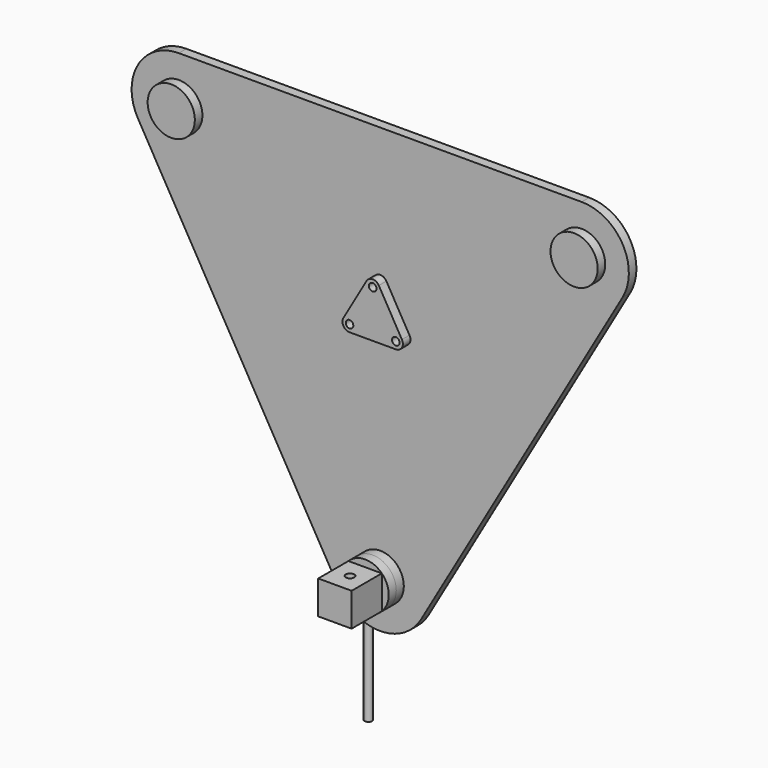
from build123d import *

# Parameters (mm, degrees)
F0_R      = 8
F1_DEPTH  = 20
F2_R      = 8
F3_DEPTH  = 22
F4_W      = 16
F4_H      = 16
F5_DEPTH  = 16
F6_R      = 8
F7_DEPTH  = 750
F9_DEPTH  = 20
F10_R     = 50
F11_DEPTH = 20
F12_R     = 50
F13_DEPTH = 20
F15_DEPTH = 80
F17_DEPTH = 100


with BuildPart() as f1:
    # F0 (on Front) → F1 (new body)
    with BuildSketch(Plane.XZ):
        with BuildLine():
            Line((-12.990381, 64.10254), (-62.009619, -20.80127))
            ThreePointArc((-62.009619, -20.80127), (-62.009619, -35.80127), (-49.019238, -43.30127))
            Line((-49.019238, -43.30127), (49.019238, -43.30127))
            ThreePointArc((49.019238, -43.30127), (62.009619, -35.80127), (62.009619, -20.80127))
            Line((62.009619, -20.80127), (12.990381, 64.10254))
            ThreePointArc((12.990381, 64.10254), (0, 71.60254), (-12.990381, 64.10254))
        make_face()
        with Locations((-49.019238, -28.30127)):
            Circle(F0_R, mode=Mode.SUBTRACT)
        with Locations((49.019238, -28.30127)):
            Circle(F0_R, mode=Mode.SUBTRACT)
        with Locations((0, 56.60254)):
            Circle(F0_R, mode=Mode.SUBTRACT)
    extrude(amount=F1_DEPTH)


with BuildPart() as f3:
    # F2 (on face) → F3 (new body)
    with BuildSketch(Plane(origin=(0, 0, 0), x_dir=(-1, 0, 0), z_dir=(0, 1, 0))):
        with Locations((49.019238, -28.30127)):
            Circle(F2_R)
    extrude(amount=F3_DEPTH)

    # F4 (on face) → F5 (join)
    with BuildSketch(Plane(origin=(0, 22, 0), x_dir=(-1, 0, 0), z_dir=(0, 1, 0))):
        with Locations((49.019238, -28.30127)):
            Rectangle(F4_W, F4_H)
    extrude(amount=F5_DEPTH)

    # F6 (on face) → F7 (join)
    with BuildSketch(Plane(origin=(0, 0, -36.30127), x_dir=(1, 0, 0), z_dir=(0, 0, -1))):
        with Locations((-49.019238, -30)):
            Circle(F6_R)
    extrude(amount=F7_DEPTH)


with BuildPart() as f9:
    # F8 (on face) → F9 (new body)
    with BuildSketch(Plane(origin=(0, 0, 0), x_dir=(-1, 0, 0), z_dir=(0, 1, 0))):
        with BuildLine():
            Line((86.60254, -542.820323), (513.39746, 196.410162))
            ThreePointArc((513.39746, 196.410162), (513.39746, 296.410162), (426.794919, 346.410162))
            Line((426.794919, 346.410162), (-426.794919, 346.410162))
            ThreePointArc((-426.794919, 346.410162), (-513.39746, 296.410162), (-513.39746, 196.410162))
            Line((-513.39746, 196.410162), (-86.60254, -542.820323))
            ThreePointArc((-86.60254, -542.820323), (0, -592.820323), (86.60254, -542.820323))
        make_face()
    extrude(amount=F9_DEPTH)

    # F10 (on face) → F11 (join)
    with BuildSketch(Plane.XZ):
        with Locations((0, -492.820323)):
            Circle(F10_R)
        with Locations((-426.794919, 246.410162)):
            Circle(F10_R)
        with Locations((426.794919, 246.410162)):
            Circle(F10_R)
    extrude(amount=F11_DEPTH)


with BuildPart() as f13:
    # F12 (on face) → F13 (new body)
    with BuildSketch(Plane.XZ.offset(20)):
        with Locations((0, -492.820323)):
            Circle(F12_R)
    extrude(amount=F13_DEPTH)

    # F14 (on face) → F15 (join)
    with BuildSketch(Plane.XZ.offset(40)):
        Polygon((35.355339, -457.464984), (-35.355339, -528.175662), (35.355339, -528.175662), align=None)
        Polygon((-35.355339, -457.464984), (-35.355339, -528.175662), (35.355339, -457.464984), align=None)
    extrude(amount=F15_DEPTH)

    # F16 (on face) → F17 (cut)
    with BuildSketch(Plane.XY.offset(-457.464984)):
        with BuildLine():
            Line((-9, -80), (9, -80))
            ThreePointArc((9, -80), (0, -71), (-9, -80))
        make_face()
        with BuildLine():
            ThreePointArc((-9, -80), (0, -89), (9, -80))
            Line((9, -80), (-9, -80))
        make_face()
    extrude(amount=-F17_DEPTH, mode=Mode.SUBTRACT)


solid = Compound([f1.part, f3.part, f9.part, f13.part])
